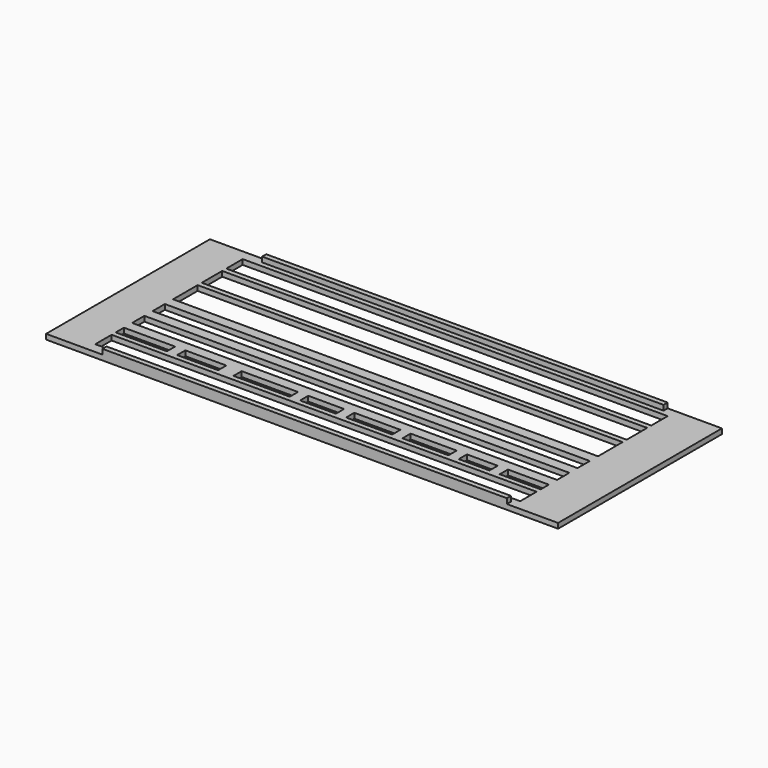
from build123d import *

# Parameters (mm, degrees)
SKETCH_W      = 200
SKETCH_H      = 80
PAD_DEPTH     = 2
SKETCH001_W   = 158
SKETCH001_H   = 2
SKETCH001_W_2 = 156.797272
PAD001_DEPTH  = 2
SKETCH002_W   = 166
SKETCH002_H   = 8
SKETCH002_H_2 = 10
SKETCH002_H_3 = 12
SKETCH002_W_2 = 20
SKETCH002_H_4 = 4
SKETCH002_W_3 = 16
SKETCH002_W_4 = 22
SKETCH002_W_5 = 14
SKETCH002_W_6 = 18
SKETCH002_W_7 = 12
SKETCH002_H_5 = 6
POCKET_DEPTH  = 5


with BuildPart() as part:
    # Sketch → Pad (new body)
    with BuildSketch(Plane.XY):
        with Locations((100, 40)):
            Rectangle(SKETCH_W, SKETCH_H)
    extrude(amount=PAD_DEPTH)

    # Sketch001 (on Face6 of Pad) → Pad001 (join)
    with BuildSketch(Plane.XY.offset(2)):
        with Locations((101, 1)):
            Rectangle(SKETCH001_W, SKETCH001_H)
        with Locations((100.398636, 79)):
            Rectangle(SKETCH001_W_2, SKETCH001_H)
    extrude(amount=PAD001_DEPTH)

    # Sketch002 (on Face5 of Pad001) → Pocket (cut)
    with BuildSketch(Plane.XY.offset(2)):
        with Locations((99, 72)):
            Rectangle(SKETCH002_W, SKETCH002_H)
        with Locations((99, 61)):
            Rectangle(SKETCH002_W, SKETCH002_H_2)
        with Locations((99, 48)):
            Rectangle(SKETCH002_W, SKETCH002_H_3)
        with Locations((99, 8)):
            Rectangle(SKETCH002_W, SKETCH002_H)
        with Locations((26, 16)):
            Rectangle(SKETCH002_W_2, SKETCH002_H_4)
        with Locations((48, 16)):
            Rectangle(SKETCH002_W_3, SKETCH002_H_4)
        with Locations((73, 16)):
            Rectangle(SKETCH002_W_4, SKETCH002_H_4)
        with Locations((95, 16)):
            Rectangle(SKETCH002_W_5, SKETCH002_H_4)
        with Locations((115, 16)):
            Rectangle(SKETCH002_W_6, SKETCH002_H_4)
        with Locations((137, 16)):
            Rectangle(SKETCH002_W_6, SKETCH002_H_4)
        with Locations((156, 16)):
            Rectangle(SKETCH002_W_7, SKETCH002_H_4)
        with Locations((174, 16)):
            Rectangle(SKETCH002_W_3, SKETCH002_H_4)
        with Locations((99, 25)):
            Rectangle(SKETCH002_W, SKETCH002_H_5)
        with Locations((99, 35)):
            Rectangle(SKETCH002_W, SKETCH002_H_5)
    extrude(amount=-POCKET_DEPTH, mode=Mode.SUBTRACT)


solid = part.part
